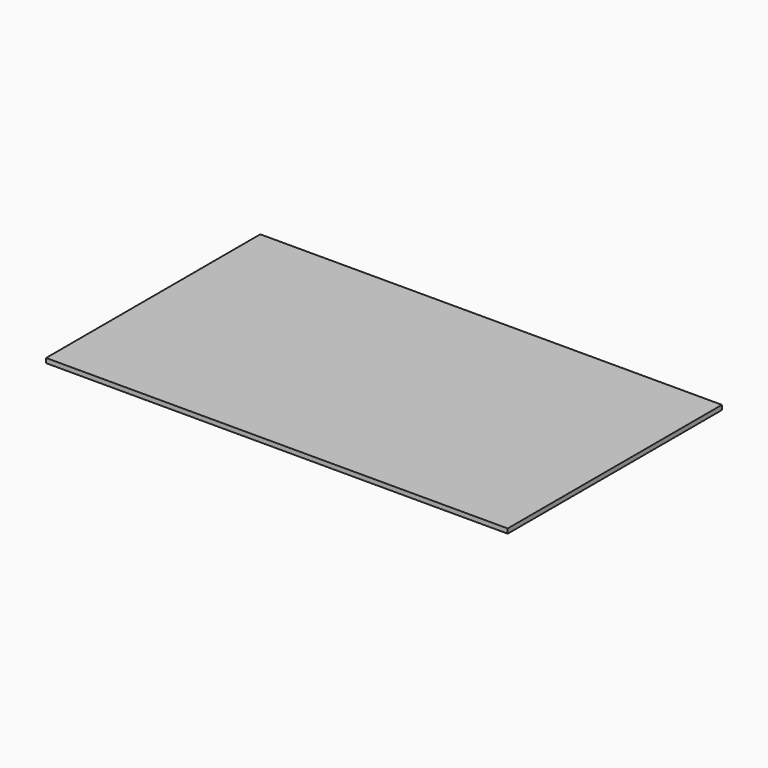
from build123d import *

# Parameters (mm, degrees)
SKETCH005_W     = 500
SKETCH005_H     = 290
PAD005_DEPTH    = 5
POCKET_DEPTH    = 1
POCKET001_DEPTH = 1


with BuildPart() as part:
    # Sketch005 → Pad005 (new body)
    with BuildSketch(Plane.XY):
        Rectangle(SKETCH005_W, SKETCH005_H)
    extrude(amount=PAD005_DEPTH)

    # Sketch006 (on Face5 of Pad005) → Pocket (cut)
    with BuildSketch(Plane(origin=(0, 0, 0), x_dir=(1, 0, 0), z_dir=(0, 0, -1))):
        with BuildLine():
            Line((-230, 105), (47, 105))
            ThreePointArc((57, 95), (54.071068, 102.071068), (47, 105))
            Line((57, -95), (57, 95))
            ThreePointArc((47, -105), (54.071068, -102.071068), (57, -95))
            Line((-230, -105), (47, -105))
            ThreePointArc((-240, -95), (-237.071068, -102.071068), (-230, -105))
            Line((-240, -95), (-240, 95))
            ThreePointArc((-230, 105), (-237.071068, 102.071068), (-240, 95))
        make_face()
    extrude(amount=-POCKET_DEPTH, mode=Mode.SUBTRACT)

    # Sketch007 (on Face4 of Pocket) → Pocket001 (cut)
    with BuildSketch(Plane(origin=(0, 0, 0), x_dir=(1, 0, 0), z_dir=(0, 0, -1))):
        with BuildLine():
            Line((67, 105), (195, 105))
            ThreePointArc((205, 95), (202.071068, 102.071068), (195, 105))
            Line((205, -95), (205, 95))
            ThreePointArc((195, -105), (202.071068, -102.071068), (205, -95))
            Line((67, -105), (195, -105))
            ThreePointArc((57, -95), (59.928932, -102.071068), (67, -105))
            Line((57, -95), (57, 95))
            ThreePointArc((67, 105), (59.928932, 102.071068), (57, 95))
        make_face()
    extrude(amount=-POCKET001_DEPTH, mode=Mode.SUBTRACT)


with BuildPart() as part_1:
    # Body005 placement: moved
    add(part.part.moved(Location((0, 0, 105))))


solid = part_1.part
